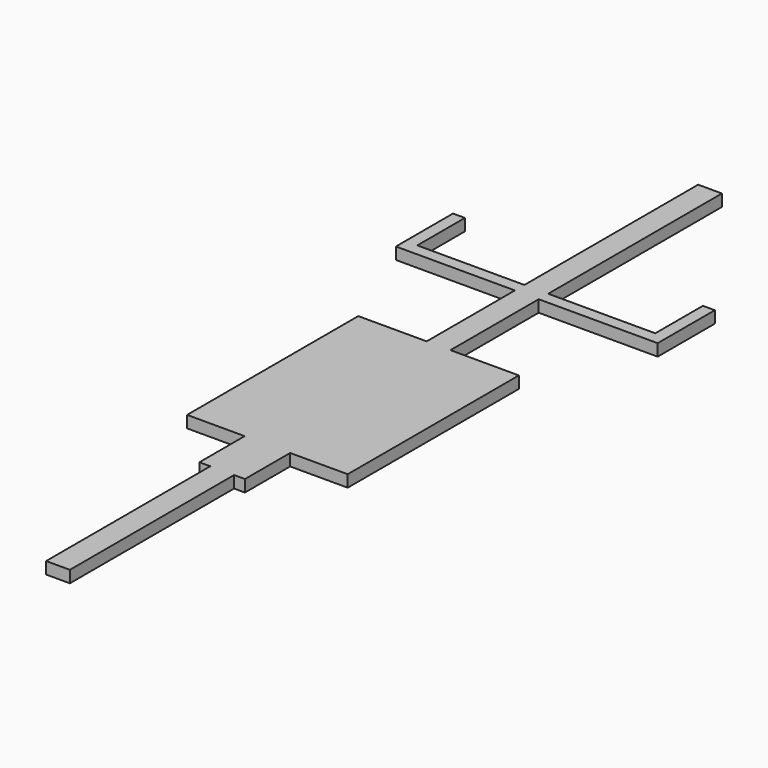
from build123d import *

# Parameters (mm, degrees)
F0_W     = 50.8
F0_H     = 438.15
F0_W_2   = 23.167712307
F0_H_2   = 120.65
F0_H_3   = 101.0720067978
F0_H_4   = 355.6754058838
F0_H_5   = 235.4025873184
F0_H_6   = 25.4
F0_H_7   = 463.55
F1_DEPTH = 25.4


with BuildPart() as f1:
    # F0 (on Top) → F1 (new body)
    with BuildSketch(Plane.XY):
        with Locations((0, 219.075)):
            Rectangle(F0_W, F0_H)
        with Locations((-36.9838561535, 498.475)):
            Rectangle(F0_W_2, F0_H_2)
        with Locations((0, 498.475)):
            Rectangle(F0_W, F0_H_2)
        with Locations((36.9838561535, 498.475)):
            Rectangle(F0_W_2, F0_H_2)
        with Locations((-36.9838561535, 609.3360033989)):
            Rectangle(F0_W_2, F0_H_3)
        with Locations((36.9838561535, 609.3360033989)):
            Rectangle(F0_W_2, F0_H_3)
        Polygon((-48.567712307, 659.8720067978), (-25.4, 659.8720067978), (-25.4, 1015.5474126816), (-171.45, 1015.5474126816), (-171.45, 558.8), (-48.567712307, 558.8), align=None)
        with Locations((0, 837.7097097397)):
            Rectangle(F0_W, F0_H_4)
        Polygon((25.4, 1015.5474126816), (25.4, 659.8720067978), (48.567712307, 659.8720067978), (48.567712307, 558.8), (171.45, 558.8), (171.45, 1015.5474126816), align=None)
        with Locations((0, 1133.2487063408)):
            Rectangle(F0_W, F0_H_5)
        Polygon((-279.4, 1250.95), (-25.4, 1250.95), (-25.4, 1276.35), (-254, 1276.35), (-254, 1403.35), (-279.4, 1403.35), align=None)
        with Locations((0, 1263.65)):
            Rectangle(F0_W, F0_H_6)
        Polygon((25.4, 1276.35), (25.4, 1250.95), (279.4, 1250.95), (279.4, 1403.35), (254, 1403.35), (254, 1276.35), align=None)
        with Locations((0, 1508.125)):
            Rectangle(F0_W, F0_H_7)
        with Locations((0, 609.3360033989)):
            Rectangle(F0_W, F0_H_3)
    extrude(amount=F1_DEPTH)


solid = f1.part
